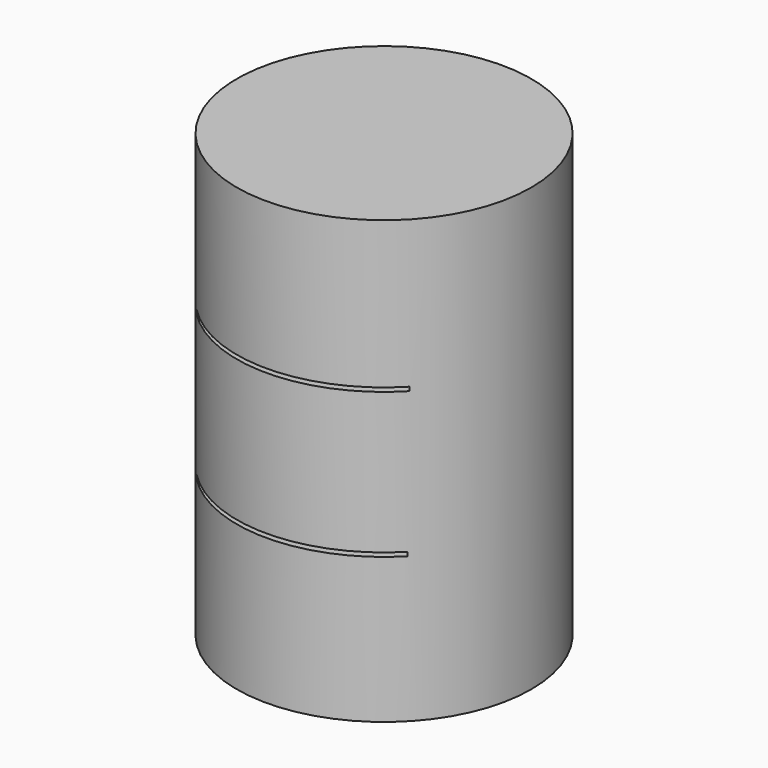
from build123d import *

# Parameters (mm, degrees)
F0_R     = 10
F1_DEPTH = 30
F2_W     = 14.354546
F2_H     = 0.267448
F3_DEPTH = 12.7


with BuildPart() as f1:
    # F0 (on Top) → F1 (new body)
    with BuildSketch(Plane.XY):
        Circle(F0_R)
    extrude(amount=F1_DEPTH)

    # F2 (on Front) → F3 (cut, symmetric)
    with BuildSketch(Plane.XZ):
        with Locations((0, 10)):
            Rectangle(F2_W, F2_H)
        with Locations((0.068115, 19.866276)):
            Rectangle(F2_W, F2_H)
    extrude(amount=F3_DEPTH, both=True, mode=Mode.SUBTRACT)


solid = f1.part
